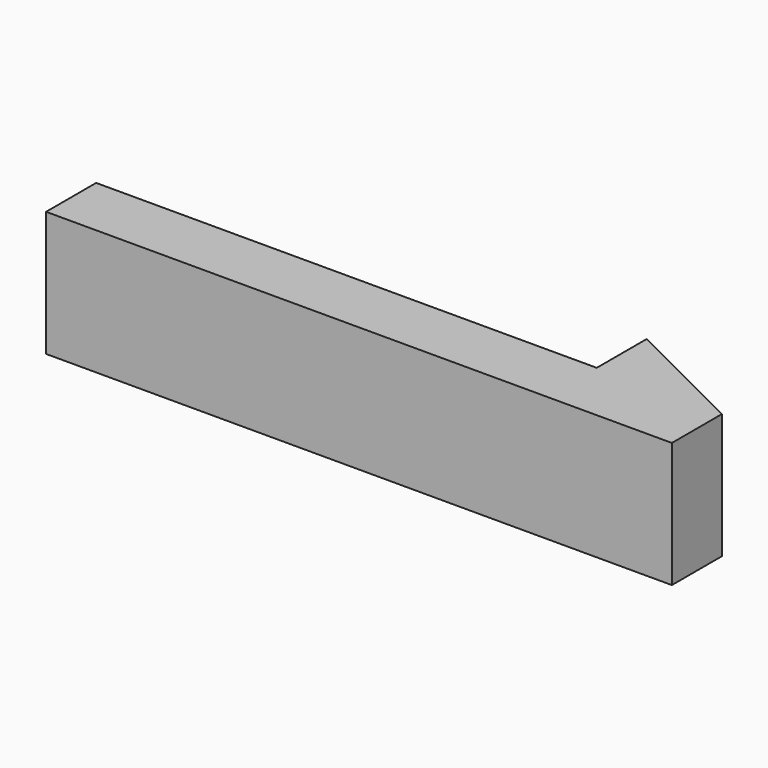
from build123d import *

# Parameters (mm, degrees)
F1_DEPTH = 3.175


with BuildPart() as f1:
    # F0 (on Top) → F1 (new body)
    with BuildSketch(Plane.XY):
        Polygon((0, 1.5875), (0, 0), (15.875, 0), (15.875, 1.5875), (12.7, 1.5875), align=None)
        Polygon((12.7, 1.5875), (15.875, 1.5875), (12.7, 3.175), align=None)
    extrude(amount=F1_DEPTH)


solid = f1.part
